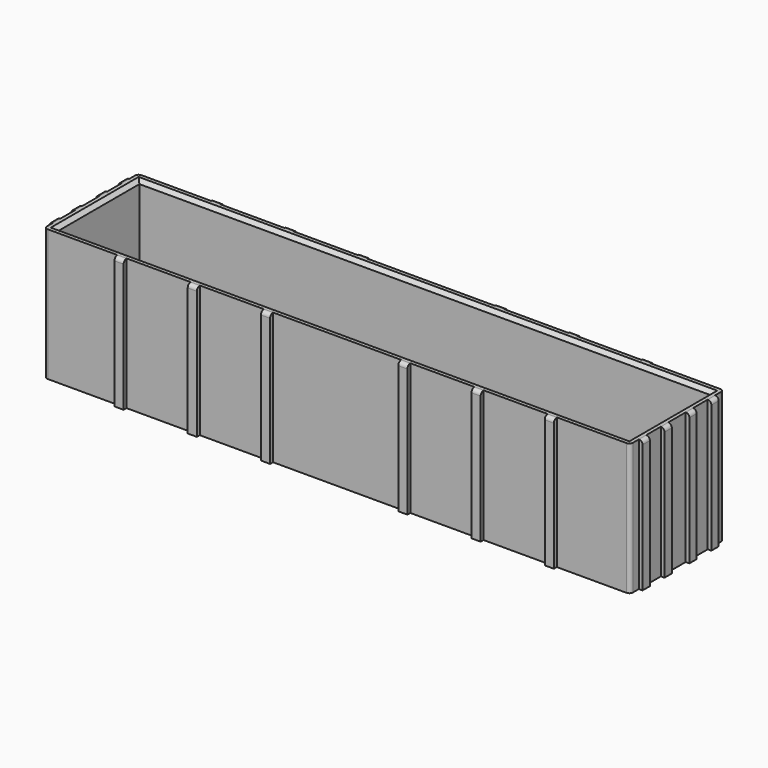
from build123d import *

# Parameters (mm, degrees)
PAD_DEPTH       = 36
SKETCH001_W     = 156
SKETCH001_H     = 28
POCKET_DEPTH    = 34
FILLET_R        = 1
FILLET001_R     = 1
FILLET002_R     = 1
FILLET003_R     = 1
CHAMFER_SIZE    = 1
CHAMFER001_SIZE = 1
CHAMFER002_SIZE = 1
CHAMFER003_SIZE = 1
FILLET004_R     = 1
FILLET005_R     = 1
FILLET006_R     = 1
FILLET007_R     = 1
FILLET008_R     = 1
FILLET009_R     = 1
FILLET010_R     = 1


with BuildPart() as part:
    # Sketch → Pad (new body)
    with BuildSketch(Plane.XY):
        Polygon((-80, 16), (-60, 16), (-60, 17), (-57.5, 17), (-57.5, 16), (-40, 16), (-40, 17), (-37.5, 17), (-37.5, 16), (-20, 16), (-20, 17), (-17.5, 17), (-17.5, 16), (17.5, 16), (17.5, 17), (20, 17), (20, 16), (37.5, 16), (37.5, 17), (40, 17), (40, 16), (57.5, 16), (57.5, 17), (60, 17), (60, 16), (80, 16), (80, 13), (81, 13), (81, 10.5), (80, 10.5), (80, 5.5), (81, 5.5), (81, 3), (80, 3), (80, -3), (81, -3), (81, -5.5), (80, -5.5), (80, -10.5), (81, -10.5), (81, -13), (80, -13), (80, -16), (60, -16), (60, -17), (57.5, -17), (57.5, -16), (40, -16), (40, -17), (37.5, -17), (37.5, -16), (20, -16), (20, -17), (17.5, -17), (17.5, -16), (-17.5, -16), (-17.5, -17), (-20, -17), (-20, -16), (-37.5, -16), (-37.5, -17), (-40, -17), (-40, -16), (-57.5, -16), (-57.5, -17), (-60, -17), (-60, -16), (-80, -16), (-80, -13), (-81, -13), (-81, -10.5), (-80, -10.5), (-80, -5.5), (-81, -5.5), (-81, -3), (-80, -3), (-80, 3), (-81, 3), (-81, 5.5), (-80, 5.5), (-80, 10.5), (-81, 10.5), (-81, 13), (-80, 13), align=None)
    extrude(amount=PAD_DEPTH)

    # Sketch001 (on Face86 of Pad) → Pocket (cut)
    with BuildSketch(Plane.XY.offset(36)):
        Rectangle(SKETCH001_W, SKETCH001_H)
    extrude(amount=-POCKET_DEPTH, mode=Mode.SUBTRACT)

    # Fillet
    fillet_edges = [part.edges().sort_by_distance(p)[0] for p in [
        (-80, -16, 18),
    ]]
    fillet(fillet_edges, radius=FILLET_R)

    # Fillet001
    fillet001_edges = [part.edges().sort_by_distance(p)[0] for p in [
        (-80, 16, 18),
    ]]
    fillet(fillet001_edges, radius=FILLET001_R)

    # Fillet002
    fillet002_edges = [part.edges().sort_by_distance(p)[0] for p in [
        (80, 16, 18),
    ]]
    fillet(fillet002_edges, radius=FILLET002_R)

    # Fillet003
    fillet003_edges = [part.edges().sort_by_distance(p)[0] for p in [
        (80, -16, 18),
    ]]
    fillet(fillet003_edges, radius=FILLET003_R)

    # Chamfer
    chamfer_edges = [part.edges().sort_by_distance(p)[0] for p in [
        (-78, 0, 36),
    ]]
    chamfer(chamfer_edges, length=CHAMFER_SIZE)

    # Chamfer001
    chamfer001_edges = [part.edges().sort_by_distance(p)[0] for p in [
        (0, 14, 36),
    ]]
    chamfer(chamfer001_edges, length=CHAMFER001_SIZE)

    # Chamfer002
    chamfer002_edges = [part.edges().sort_by_distance(p)[0] for p in [
        (0, -14, 36),
    ]]
    chamfer(chamfer002_edges, length=CHAMFER002_SIZE)

    # Chamfer003
    chamfer003_edges = [part.edges().sort_by_distance(p)[0] for p in [
        (78, 0, 36),
    ]]
    chamfer(chamfer003_edges, length=CHAMFER003_SIZE)

    # Fillet004
    fillet004_edges = [part.edges().sort_by_distance(p)[0] for p in [
        (-18.75, -17, 36),
    ]]
    fillet(fillet004_edges, radius=FILLET004_R)

    # Fillet005
    fillet005_edges = [part.edges().sort_by_distance(p)[0] for p in [
        (-38.75, -17, 36),
    ]]
    fillet(fillet005_edges, radius=FILLET005_R)

    # Fillet006
    fillet006_edges = [part.edges().sort_by_distance(p)[0] for p in [
        (81, -4.25, 36),
        (81, 4.25, 36),
        (18.75, 17, 36),
        (-18.75, 17, 36),
        (18.75, -17, 36),
        (38.75, -17, 36),
        (38.75, 17, 36),
        (-38.75, 17, 36),
        (-81, -4.25, 36),
        (-81, 4.25, 36),
    ]]
    fillet(fillet006_edges, radius=FILLET006_R)

    # Fillet007
    fillet007_edges = [part.edges().sort_by_distance(p)[0] for p in [
        (58.75, -17, 36),
    ]]
    fillet(fillet007_edges, radius=FILLET007_R)

    # Fillet008
    fillet008_edges = [part.edges().sort_by_distance(p)[0] for p in [
        (81, 11.75, 36),
        (81, -11.75, 36),
    ]]
    fillet(fillet008_edges, radius=FILLET008_R)

    # Fillet009
    fillet009_edges = [part.edges().sort_by_distance(p)[0] for p in [
        (-58.75, 17, 36),
        (-58.75, -17, 36),
        (-81, -11.75, 36),
        (-81, 11.75, 36),
    ]]
    fillet(fillet009_edges, radius=FILLET009_R)

    # Fillet010
    fillet010_edges = [part.edges().sort_by_distance(p)[0] for p in [
        (58.75, 17, 36),
    ]]
    fillet(fillet010_edges, radius=FILLET010_R)


solid = part.part
